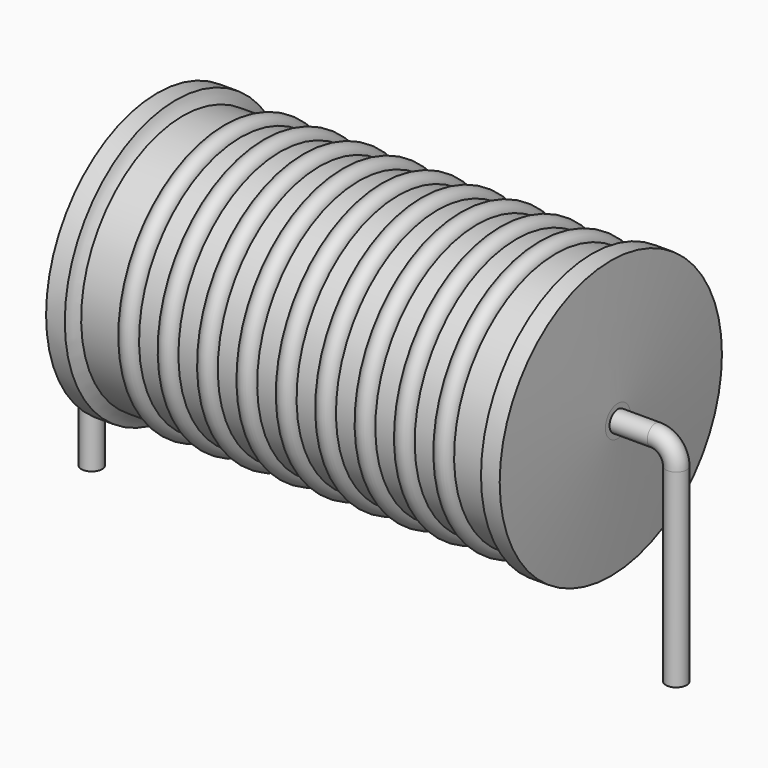
from build123d import *

# Parameters (mm, degrees)
SKETCH_R = 0.45


with BuildPart() as revolution:
    # Sketch002 → Revolution (revolve)
    with BuildSketch(Plane.XZ):
        with BuildLine():
            Line((2.8448, 12.17), (3.6576, 12.17))
            ThreePointArc((3.6576, 12.17), (3.78271, 11.899626), (3.9624, 11.662))
            Line((3.9624, 11.662), (21.4376, 11.662))
            ThreePointArc((21.4376, 11.662), (21.61729, 11.899626), (21.7424, 12.17))
            Line((21.7424, 12.17), (22.5552, 12.17))
            ThreePointArc((22.86, 6.81), (22.723014, 9.490877), (22.5552, 12.17))
            Line((22.86, 6.135), (22.86, 6.81))
            Line((2.54, 6.135), (22.86, 6.135))
            Line((2.54, 6.135), (2.54, 6.81))
            ThreePointArc((2.8448, 12.17), (2.676986, 9.490877), (2.54, 6.81))
        make_face()
    revolve(axis=Axis((2.54, 0, 6.135), (1, 0, 0)))


with BuildPart() as sweep_body:
    # Sweep: sweep along a path in Sketch001
    with BuildLine(Plane.XZ) as sweep_path:
        Line((0, -3), (0, 5.235))
        ThreePointArc((0, 5.235), (0.263601, 5.871393), (0.899991, 6.135))
        Line((0.899991, 6.135), (24.5, 6.135))
        ThreePointArc((24.5, 6.135), (25.136396, 5.871396), (25.4, 5.235))
        Line((25.4, 5.235), (25.4, -3))
    # Sketch → Sweep (sweep)
    with BuildSketch(Plane.XY.offset(-2)):
        Circle(SKETCH_R)
    sweep(path=sweep_path.line)


with BuildPart() as revolution001:
    # Sketch003 → Revolution001 (revolve)
    with BuildSketch(Plane.XZ):
        with BuildLine():
            ThreePointArc((6.486358, 11.58072), (6.058568, 12.008509), (5.630779, 11.58072))
            Line((4.7752, 11.58072), (5.630779, 11.58072))
            Line((4.7752, 11.58072), (4.7752, 10.37372))
            Line((4.7752, 10.37372), (21.0312, 10.37372))
            Line((21.0312, 10.37372), (21.0312, 11.58072))
            Line((20.175621, 11.58072), (21.0312, 11.58072))
            ThreePointArc((20.175621, 11.58072), (19.747832, 12.008509), (19.320042, 11.58072))
            Line((18.464463, 11.58072), (19.320042, 11.58072))
            ThreePointArc((18.464463, 11.58072), (18.036674, 12.008509), (17.608884, 11.58072))
            Line((16.753305, 11.58072), (17.608884, 11.58072))
            ThreePointArc((16.753305, 11.58072), (16.325516, 12.008509), (15.897726, 11.58072))
            Line((15.042147, 11.58072), (15.897726, 11.58072))
            ThreePointArc((15.042147, 11.58072), (14.614358, 12.008509), (14.186568, 11.58072))
            Line((13.330989, 11.58072), (14.186568, 11.58072))
            ThreePointArc((13.330989, 11.58072), (12.9032, 12.008509), (12.475411, 11.58072))
            Line((11.619832, 11.58072), (12.475411, 11.58072))
            ThreePointArc((11.619832, 11.58072), (11.192042, 12.008509), (10.764253, 11.58072))
            Line((9.908674, 11.58072), (10.764253, 11.58072))
            ThreePointArc((9.908674, 11.58072), (9.480884, 12.008509), (9.053095, 11.58072))
            Line((8.197516, 11.58072), (9.053095, 11.58072))
            ThreePointArc((8.197516, 11.58072), (7.769726, 12.008509), (7.341937, 11.58072))
            Line((6.486358, 11.58072), (7.341937, 11.58072))
        make_face()
    revolve(axis=Axis((3.048, 0, 6.135), (1, 0, 0)))


solid = Compound([revolution.part, sweep_body.part, revolution001.part])
